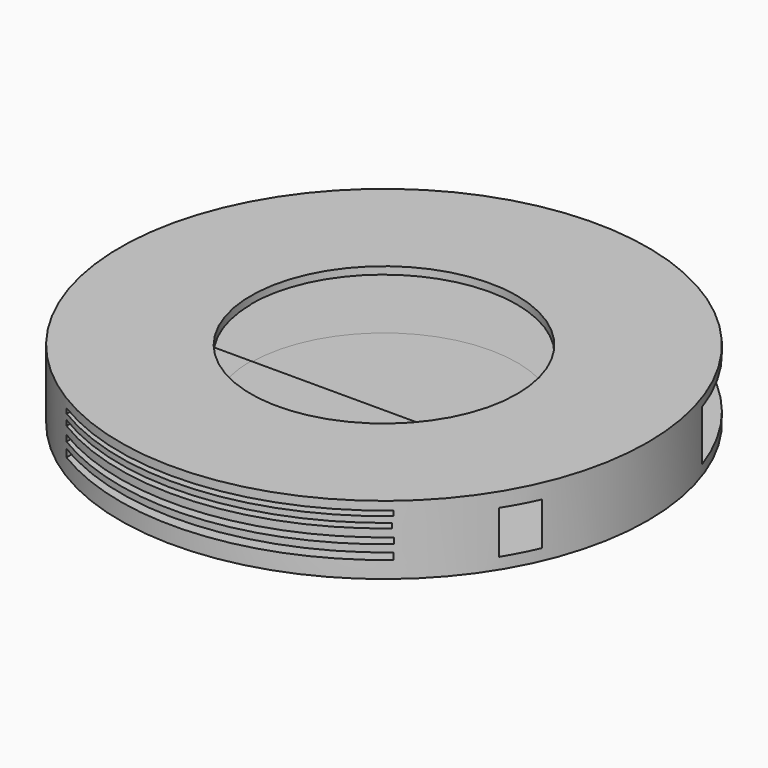
from build123d import *

# Parameters (mm, degrees)
F0_R     = 48.683566
F0_R_2   = 24.549797
F1_DEPTH = 12.7
F2_DEPTH = 5.08
F4_DEPTH = 50.8
F6_DEPTH = 25.4
F7_W     = 56.701847
F7_H     = 0.898932
F7_W_2   = 56.840144
F7_H_2   = 1.106377
F8_DEPTH = 127


with BuildPart() as f1:
    # F0 (on Top) → F1 (new body)
    with BuildSketch(Plane.XY):
        Circle(F0_R)
        Circle(F0_R_2, mode=Mode.SUBTRACT)
    extrude(amount=F1_DEPTH)


with BuildPart() as f2:
    # F0 (on Top) → F2 (new body)
    with BuildSketch(Plane.XY):
        Circle(F0_R_2)
    extrude(amount=F2_DEPTH)


with BuildPart() as f4_tool:
    # F3 (on Front) → F4 (new body)
    with BuildSketch(Plane.XZ):
        Polygon((46.052266, 11.164187), (-41.400526, 11.396773), (-41.400526, 1.860698), (46.052266, 1.860698), align=None)
    extrude(amount=-F4_DEPTH)


with BuildPart() as f1_1:
    add(f1.part)

    # F4: cut by f4_tool
    add(f4_tool.part, mode=Mode.SUBTRACT)


with BuildPart() as f2_1:
    add(f2.part)

    # F4: cut by f4_tool
    add(f4_tool.part, mode=Mode.SUBTRACT)


with BuildPart() as f6_tool:
    # F5 (on Front) → F6 (new body)
    with BuildSketch(Plane.XZ):
        Polygon((44.656746, 10.001251), (-45.121919, 11.62936), (-45.121919, 2.093285), (44.656746, 2.093285), align=None)
    extrude(amount=F6_DEPTH)


with BuildPart() as f1_2:
    add(f1_1.part)

    # F6: cut by f6_tool
    add(f6_tool.part, mode=Mode.SUBTRACT)

    # F7 (on Front) → F8 (cut)
    with BuildSketch(Plane.XZ):
        with Locations((3.119551, 10.672379)):
            Rectangle(F7_W, F7_H)
        Polygon((31.332176, 9.116535), (-25.300521, 9.185684), (-25.300521, 8.217604), (31.332176, 8.217604), align=None)
        with Locations((3.119551, 6.212294)):
            Rectangle(F7_W_2, F7_H_2)
        Polygon((31.487264, 4.311653), (-25.300521, 4.552728), (-25.300521, 3.100608), (31.487264, 3.100608), align=None)
    extrude(amount=F8_DEPTH, mode=Mode.SUBTRACT)


with BuildPart() as f2_2:
    add(f2_1.part)

    # F6: cut by f6_tool
    add(f6_tool.part, mode=Mode.SUBTRACT)


solid = Compound([f1_2.part, f2_2.part])
